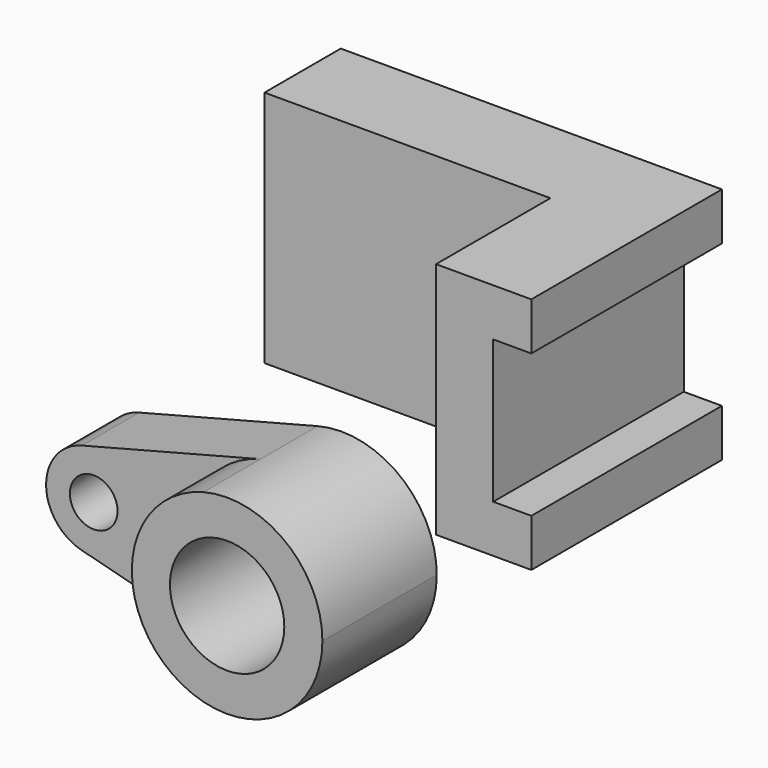
from build123d import *

# Parameters (mm, degrees)
F0_W     = 60
F0_H     = 50
F1_DEPTH = 20
F2_DEPTH = 50
F0_R     = 5
F3_DEPTH = 15
F0_R_2   = 12
F4_DEPTH = 30


with BuildPart() as f1:
    # F0 (on Front) → F1 (new body)
    with BuildSketch(Plane.XZ):
        with Locations((29.852928, 25.271601)):
            Rectangle(F0_W, F0_H)
    extrude(amount=F1_DEPTH)

    # F0 (on Front) → F2 (join)
    with BuildSketch(Plane.XZ):
        Polygon((79.852928, 50.271601), (59.852928, 50.271601), (59.852928, 0.271601), (79.852928, 0.271601), (79.852928, 10.271601), (71.852928, 10.271601), (71.852928, 40.271601), (79.852928, 40.271601), align=None)
    extrude(amount=F2_DEPTH)


with BuildPart() as f3:
    # F0 (on Front) → F3 (new body)
    with BuildSketch(Plane.XZ):
        with BuildLine():
            Line((-5, -21.071143), (-42.5, -30.753601))
            ThreePointArc((-42.5, -30.753601), (-50, -40.436059), (-42.5, -50.118518))
            Line((-42.5, -50.118518), (-5, -59.800976))
            ThreePointArc((-5, -59.800976), (-20, -40.436059), (-5, -21.071143))
        make_face()
        with Locations((-40, -40.436059)):
            Circle(F0_R, mode=Mode.SUBTRACT)
    extrude(amount=F3_DEPTH)

    # F0 (on Front) → F4 (join)
    with BuildSketch(Plane.XZ):
        with BuildLine():
            ThreePointArc((20, -40.436059), (12.247449, -24.624671), (-5, -21.071143))
            ThreePointArc((-5, -21.071143), (-20, -40.436059), (-5, -59.800976))
            ThreePointArc((-5, -59.800976), (12.247449, -56.247448), (20, -40.436059))
        make_face()
        with Locations((0, -40.436059)):
            Circle(F0_R_2, mode=Mode.SUBTRACT)
    extrude(amount=F4_DEPTH)


solid = Compound([f1.part, f3.part])
